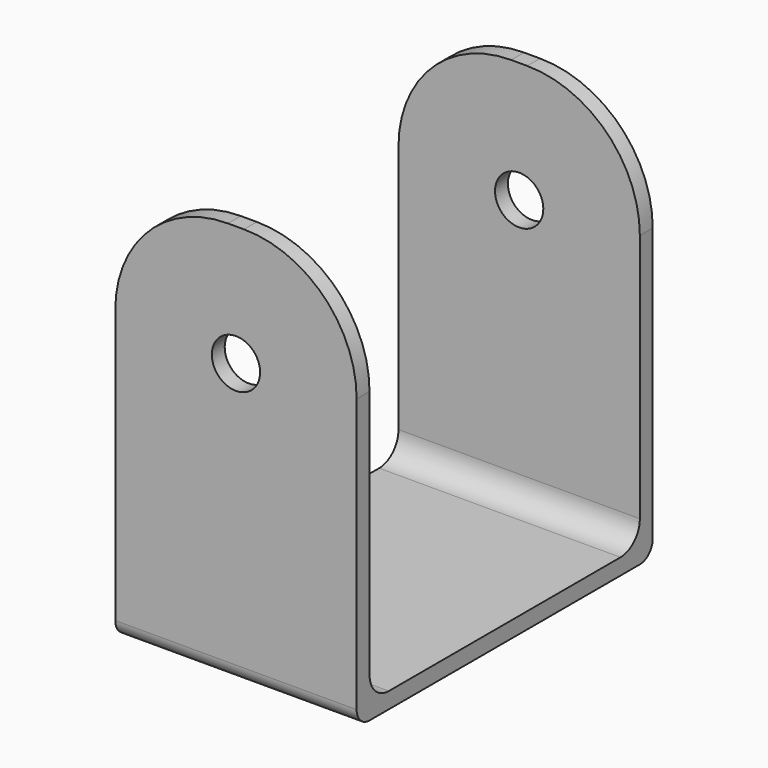
from build123d import *

# Parameters (mm, degrees)
PAD020_DEPTH  = 30
SKETCH004_R   = 3
HOLE003_DEPTH = 46.001
FILLET_R      = 14
FILLET011_R   = 3
FILLET012_R   = 2


with BuildPart() as part:
    # Sketch036 → Pad020 (new body)
    with BuildSketch(Plane.YZ):
        Polygon((-23, 50), (-21, 50), (-21, 2), (21, 2), (21, 50), (23, 50), (23, 0), (-23, 0), align=None)
    extrude(amount=PAD020_DEPTH)

    # Sketch004 (on Face8 of Pad020) → Hole003 (cut, through all)
    with BuildSketch(Plane(origin=(0, -23, 0), x_dir=(0, 0, -1), z_dir=(0, -1, 0))):
        with Locations((-35, 15)):
            Circle(SKETCH004_R)
    extrude(amount=-HOLE003_DEPTH, mode=Mode.SUBTRACT)

    # Fillet
    fillet_edges = [part.edges().sort_by_distance(p)[0] for p in [
        (30, 22, 50),
        (30, -22, 50),
        (0, -22, 50),
        (0, 22, 50),
    ]]
    fillet(fillet_edges, radius=FILLET_R)

    # Fillet011
    fillet011_edges = [part.edges().sort_by_distance(p)[0] for p in [
        (15, 21, 2),
        (15, -21, 2),
    ]]
    fillet(fillet011_edges, radius=FILLET011_R)

    # Fillet012
    fillet012_edges = [part.edges().sort_by_distance(p)[0] for p in [
        (15, -23, 0),
        (15, 23, 0),
    ]]
    fillet(fillet012_edges, radius=FILLET012_R)


solid = part.part
